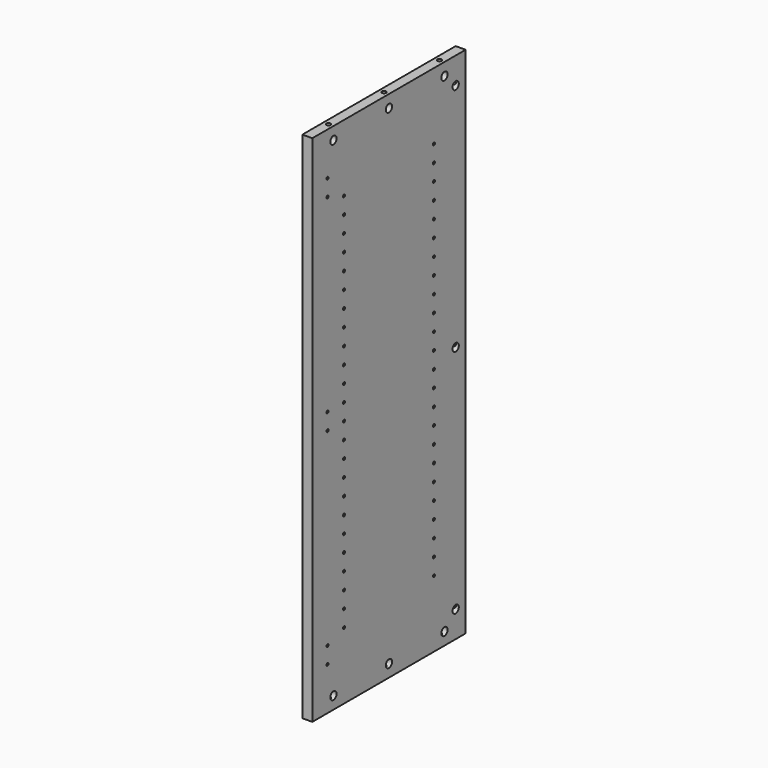
from build123d import *

# Parameters (mm, degrees)
F0_W      = 368.3
F0_H      = 987.425
F1_DEPTH  = 19.05
F3_D      = 5.0038
F3_DEPTH  = 25.4
F3_TIP    = 1.5032931827
F5_D      = 15.0114
F5_DEPTH  = 14.224
F5_TIP    = 4.5098795482
F6_D      = 5.0038
F6_DEPTH  = 14.224
F6_TIP    = 1.5032931827
F8_D      = 15.0114
F8_DEPTH  = 14.224
F8_TIP    = 4.5098795482
F10_D     = 8.001
F10_DEPTH = 25.4
F10_TIP   = 2.4037429064
F12_D     = 8.001
F12_DEPTH = 25.4
F12_TIP   = 2.4037429064
F14_D     = 8.001
F14_DEPTH = 25.4
F14_TIP   = 2.4037429064


with BuildPart() as f1:
    # F0 (on Right) → F1 (new body)
    with BuildSketch(Plane.YZ):
        Rectangle(F0_W, F0_H)
    extrude(amount=F1_DEPTH)

    # F3
    with Locations(Plane.YZ.offset(19.05)):
        with Locations((-107.95, 365.1885), (-107.95, 301.6885), (-107.95, 269.9385), (-107.95, 206.4385), (-107.95, 174.6885), (-107.95, 111.1885), (-107.95, 79.4385), (-107.95, 15.9385), (-107.95, -15.8115), (-107.95, -47.5615), (-107.95, -79.3115), (-107.95, -111.0615), (-107.95, -174.5615), (-107.95, -206.3115), (-107.95, -269.8115), (-107.95, -301.5615), (-107.95, -333.3115), (-107.95, -365.0615), (107.95, -365.0615), (107.95, -301.5615), (107.95, -269.8115), (107.95, -206.3115), (107.95, -174.5615), (107.95, -111.0615), (107.95, -79.3115), (107.95, -15.8115), (107.95, 15.9385), (107.95, 79.4385), (107.95, 111.1885), (107.95, 174.6885), (107.95, 206.4385), (107.95, 238.1885), (107.95, 269.9385), (107.95, 301.6885), (107.95, 365.1885), (-107.95, 333.4385), (107.95, 333.4385), (-107.95, 238.1885), (-107.95, 142.9385), (107.95, 142.9385), (107.95, 47.6885), (-107.95, 47.6885), (107.95, -47.5615), (107.95, -142.8115), (-107.95, -142.8115), (-107.95, -238.0615), (107.95, -238.0615), (107.95, -333.3115)):
            Hole(F3_D / 2, depth=F3_DEPTH)
            with Locations((0, 0, -(F3_DEPTH + F3_TIP / 2))):  # 118° drill point
                Cone(0, F3_D / 2, F3_TIP, mode=Mode.SUBTRACT)

    # F5
    with Locations(Plane.YZ.offset(19.05)):
        with Locations((-133.35, -469.8365), (0, -469.8365), (133.35, -469.8365), (-133.35, 469.8365), (0, 469.8365), (133.35, 469.8365)):
            Hole(F5_D / 2, depth=F5_DEPTH)
            with Locations((0, 0, -(F5_DEPTH + F5_TIP / 2))):  # 118° drill point
                Cone(0, F5_D / 2, F5_TIP, mode=Mode.SUBTRACT)

    # F6
    with Locations(Plane.YZ.offset(19.05)):
        with Locations((-147.574, 411.1625), (-147.574, 379.4125), (-147.574, 15.875), (-147.574, -15.875), (-147.574, -379.4125), (-147.574, -411.1625)):
            Hole(F6_D / 2, depth=F6_DEPTH)
            with Locations((0, 0, -(F6_DEPTH + F6_TIP / 2))):  # 118° drill point
                Cone(0, F6_D / 2, F6_TIP, mode=Mode.SUBTRACT)

    # F8
    with Locations(Plane.YZ.offset(19.05)):
        with Locations((160.274, 442.9125), (160.274, 0), (160.274, -442.9125)):
            Hole(F8_D / 2, depth=F8_DEPTH)
            with Locations((0, 0, -(F8_DEPTH + F8_TIP / 2))):  # 118° drill point
                Cone(0, F8_D / 2, F8_TIP, mode=Mode.SUBTRACT)

    # F10
    with Locations(Plane(origin=(0, 0, -493.7125), x_dir=(1, 0, 0), z_dir=(0, 0, -1))):
        with Locations((9.525, 133.35), (9.525, 0), (9.525, -133.35)):
            Hole(F10_D / 2, depth=F10_DEPTH)
            with Locations((0, 0, -(F10_DEPTH + F10_TIP / 2))):  # 118° drill point
                Cone(0, F10_D / 2, F10_TIP, mode=Mode.SUBTRACT)

    # F12
    with Locations(Plane.XY.offset(493.7125)):
        with Locations((9.525, 133.35), (9.525, 0), (9.525, -133.35)):
            Hole(F12_D / 2, depth=F12_DEPTH)
            with Locations((0, 0, -(F12_DEPTH + F12_TIP / 2))):  # 118° drill point
                Cone(0, F12_D / 2, F12_TIP, mode=Mode.SUBTRACT)

    # F14
    with Locations(Plane(origin=(0, 184.15, 0), x_dir=(-1, 0, 0), z_dir=(0, 1, 0))):
        with Locations((-9.525, -442.9125), (-9.525, 0), (-9.525, 442.9125)):
            Hole(F14_D / 2, depth=F14_DEPTH)
            with Locations((0, 0, -(F14_DEPTH + F14_TIP / 2))):  # 118° drill point
                Cone(0, F14_D / 2, F14_TIP, mode=Mode.SUBTRACT)


solid = f1.part
